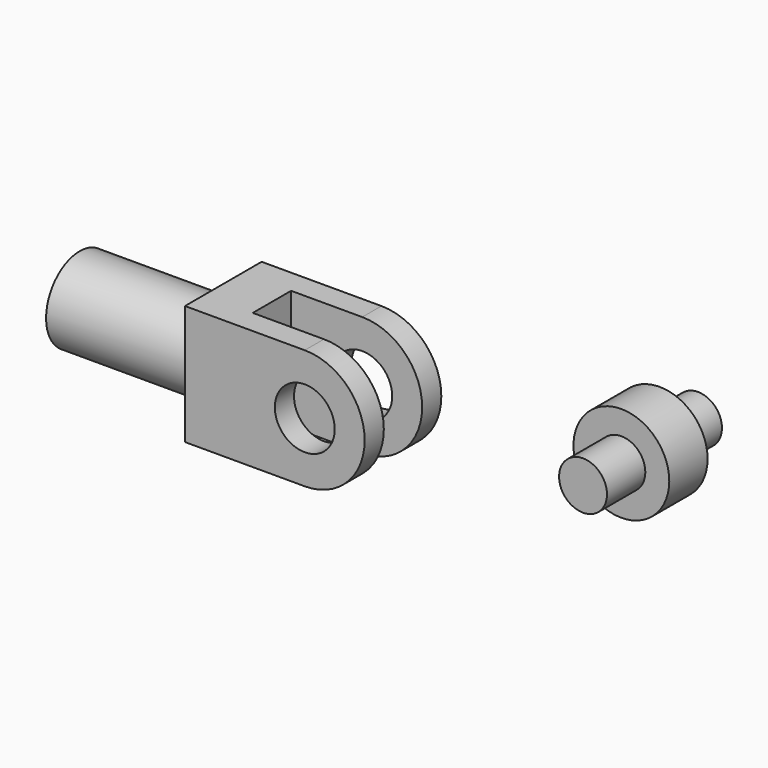
from build123d import *

# Parameters (mm, degrees)
F0_R           = 12.5
F1_DEPTH       = 10
F3_R           = 12.5
F4_DEPTH       = 10
F5_W           = 20.2915735543
F5_H           = 50
F6_DEPTH       = 20
F7_R           = 17.5
F8_DEPTH       = 60
F9_R           = 8.5
F10_DEPTH      = 60
F11_R          = 20
F12_DEPTH      = 10
F12_DEPTH_BACK = 10
F13_R          = 10
F14_DEPTH      = 20
F15_R          = 10
F16_DEPTH      = 20


with BuildPart() as f1:
    # F0 (on Front) → F1 (new body)
    with BuildSketch(Plane.XZ):
        with BuildLine():
            Line((-50, -25), (0, -25))
            ThreePointArc((0, -25), (25, 0), (0, 25))
            Line((0, 25), (-50, 25))
            Line((-50, 25), (-50, -25))
        make_face()
        Circle(F0_R, mode=Mode.SUBTRACT)
    extrude(amount=F1_DEPTH)



with BuildPart() as f4:
    # F3 (on offset) → F4 (new body)
    with BuildSketch(Plane.XZ.offset(30)):
        with BuildLine():
            Line((0, 25), (-50, 25))
            Line((-50, 25), (-50, -25))
            Line((-50, -25), (0, -25))
            ThreePointArc((0, -25), (25, 0), (0, 25))
        make_face()
        Circle(F3_R, mode=Mode.SUBTRACT)
    extrude(amount=F4_DEPTH)


with BuildPart() as f1_1:
    add(f1.part)

    add(f4.part)  # F6 merges F4
    # F5 (on face) → F6 (join, through all)
    with BuildSketch(Plane.XZ.offset(10)):
        with Locations((-39.8542132229, 0)):
            Rectangle(F5_W, F5_H)
    extrude(amount=F6_DEPTH)

    # F7 (on face) → F8 (join)
    with BuildSketch(Plane(origin=(-50, 0, 0), x_dir=(0, -1, 0), z_dir=(-1, 0, 0))):
        with Locations((19.9840664864, 0)):
            Circle(F7_R)
    extrude(amount=F8_DEPTH)

    # F9 (on face) → F10 (cut)
    with BuildSketch(Plane(origin=(-110, 0, 0), x_dir=(0, -1, 0), z_dir=(-1, 0, 0))):
        with Locations((19.9840664864, 0)):
            Circle(F9_R)
    extrude(amount=-F10_DEPTH, mode=Mode.SUBTRACT)


with BuildPart() as f12:
    # F11 (on Front) → F12 (new body, two sides)
    with BuildSketch(Plane.XZ) as f12_sk:
        with Locations((108.1550717354, 6.4049987122)):
            Circle(F11_R)
    extrude(amount=F12_DEPTH)
    extrude(f12_sk.sketch, amount=-F12_DEPTH_BACK)

    # F13 (on face) → F14 (join)
    with BuildSketch(Plane.XZ.offset(10)):
        with Locations((108.1550717354, 6.4049987122)):
            Circle(F13_R)
    extrude(amount=F14_DEPTH)

    # F15 (on face) → F16 (join)
    with BuildSketch(Plane(origin=(0, 10, 0), x_dir=(-1, 0, 0), z_dir=(0, 1, 0))):
        with Locations((-108.1550717354, 6.4049987122)):
            Circle(F15_R)
    extrude(amount=F16_DEPTH)


solid = Compound([f1_1.part, f12.part])
